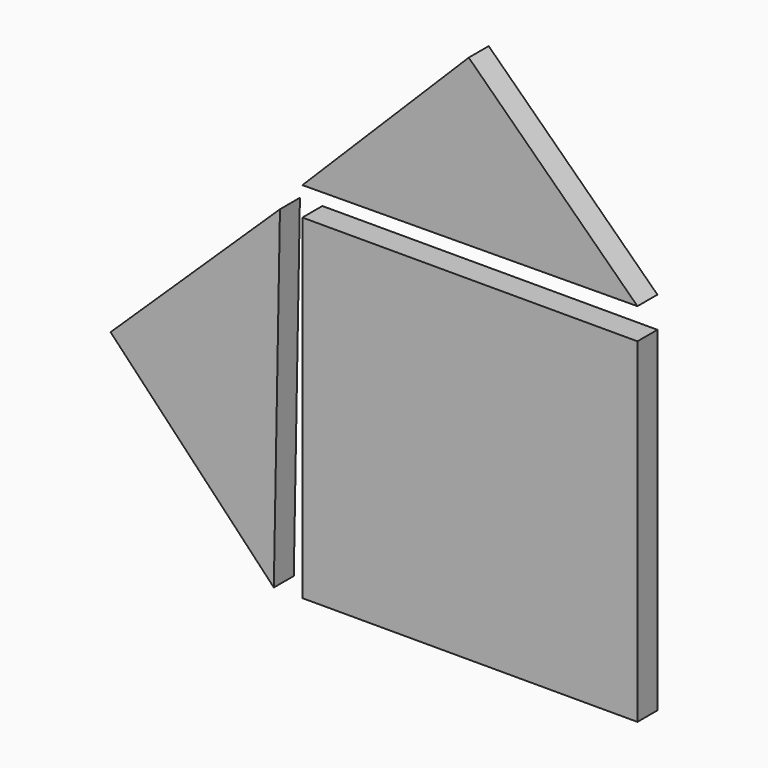
from build123d import *

# Parameters (mm, degrees)
F0_W     = 1193.8
F0_H     = 1193.8
F1_DEPTH = 88.9
F3_DEPTH = 88.9
F5_DEPTH = 88.9


with BuildPart() as f1:
    # F0 (on Front) → F1 (new body)
    with BuildSketch(Plane.XZ):
        with Locations((-192.075821, -15.156937)):
            Rectangle(F0_W, F0_H)
    extrude(amount=F1_DEPTH)


with BuildPart() as f3:
    # F2 (on Front) → F3 (new body)
    with BuildSketch(Plane.XZ):
        Polygon((-890.729769, -611.856726), (-868.866939, 581.743063), (-1472.318884, 0), align=None)
    extrude(amount=F3_DEPTH)


with BuildPart() as f5:
    # F4 (on Front) → F5 (new body)
    with BuildSketch(Plane.XZ):
        Polygon((-788.975821, 683.343063), (404.793947, 691.8391), (-196.278917, 1276.039967), align=None)
    extrude(amount=F5_DEPTH)


solid = Compound([f1.part, f3.part, f5.part])
